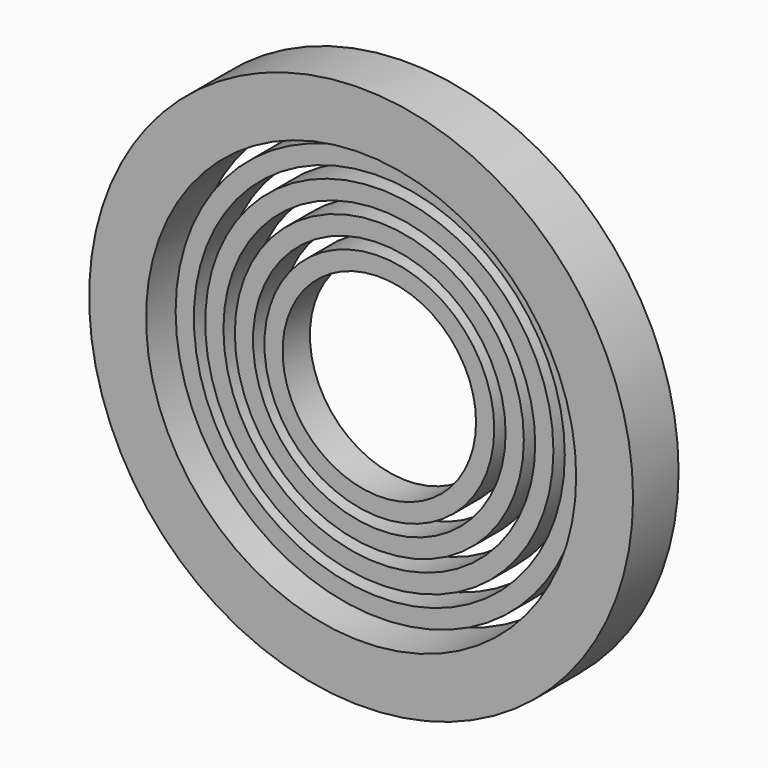
from build123d import *

# Parameters (mm, degrees)
F0_R     = 50.5
F0_R_2   = 42.5
F1_DEPTH = 15
F2_R     = 63.5
F2_R_2   = 55.5
F3_DEPTH = 15
F4_R     = 76.5
F4_R_2   = 68.5
F5_DEPTH = 15
F6_R     = 89.5
F6_R_2   = 81.5
F7_DEPTH = 15
F8_R     = 119.5
F8_R_2   = 94.5
F9_DEPTH = 25


with BuildPart() as f1:
    # F0 (on Front) → F1 (new body)
    with BuildSketch(Plane.XZ):
        Circle(F0_R)
        Circle(F0_R_2, mode=Mode.SUBTRACT)
    extrude(amount=F1_DEPTH)


with BuildPart() as f3:
    # F2 (on Front) → F3 (new body)
    with BuildSketch(Plane.XZ):
        Circle(F2_R)
        Circle(F2_R_2, mode=Mode.SUBTRACT)
    extrude(amount=F3_DEPTH)


with BuildPart() as f5:
    # F4 (on Front) → F5 (new body)
    with BuildSketch(Plane.XZ):
        Circle(F4_R)
        Circle(F4_R_2, mode=Mode.SUBTRACT)
    extrude(amount=F5_DEPTH)


with BuildPart() as f7:
    # F6 (on Front) → F7 (new body)
    with BuildSketch(Plane.XZ):
        Circle(F6_R)
        Circle(F6_R_2, mode=Mode.SUBTRACT)
    extrude(amount=F7_DEPTH)


with BuildPart() as f9:
    # F8 (on Front) → F9 (new body)
    with BuildSketch(Plane.XZ):
        Circle(F8_R)
        Circle(F8_R_2, mode=Mode.SUBTRACT)
    extrude(amount=F9_DEPTH)


solid = Compound([f1.part, f3.part, f5.part, f7.part, f9.part])
